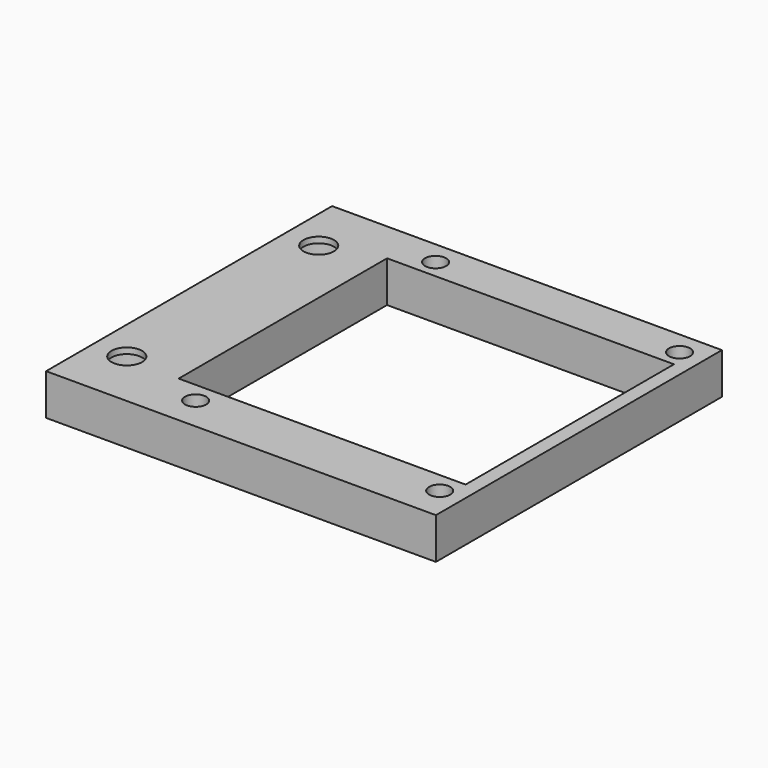
from build123d import *

# Parameters (mm, degrees)
F2_W      = 51.3
F2_H      = 60.8
F2_R      = 1.8
F2_W_2    = 48.7926781061
F2_H_2    = 44.3010972813
F3_DEPTH  = 7
F4_DEPTH  = 15
F5_R      = 2.6
F6_DEPTH  = 25
F7_R      = 1.8
F8_DEPTH  = 2.6
F9_R      = 4.5
F9_R_2    = 2.6
F10_DEPTH = 6


with BuildPart() as f3:
    # F2 (on Top) → F3 (new body)
    with BuildSketch(Plane.XY):
        with Locations((25.65, -30.4)):
            Rectangle(F2_W, F2_H)
        with Locations((5.8, -55)):
            Circle(F2_R, mode=Mode.SUBTRACT)
        with Locations((47.3, -55)):
            Circle(F2_R, mode=Mode.SUBTRACT)
        with Locations((24.4784042297, -29.3142660521)):
            Rectangle(F2_W_2, F2_H_2, mode=Mode.SUBTRACT)
        with Locations((5.8, -4)):
            Circle(F2_R, mode=Mode.SUBTRACT)
        with Locations((47.3, -4)):
            Circle(F2_R, mode=Mode.SUBTRACT)
    extrude(amount=F3_DEPTH)

    # F4 (add): a face of the model
    f4_faces = [f3.faces().sort_by_distance(p)[0] for p in [
        (0, -30.4, 3.5),
    ]]
    extrude(f4_faces, amount=F4_DEPTH)

    # F5 (on face) → F6 (cut)
    with BuildSketch(Plane.XY.offset(7)):
        with Locations((-9.2740962282, -10)):
            Circle(F5_R)
        with Locations((-9.2740962282, -50.8)):
            Circle(F5_R)
    extrude(amount=-F6_DEPTH, mode=Mode.SUBTRACT)

    # F7 (on face) → F8 (cut)
    with BuildSketch(Plane(origin=(0, 0, 0), x_dir=(1, 0, 0), z_dir=(0, 0, -1))):
        Polygon((7.4743157806, 52.1), (9.1486315613, 55), (7.4743157806, 57.9), (4.1256842194, 57.9), (2.4513684387, 55), (4.1256842194, 52.1), align=None)
        with Locations((5.8, 55)):
            Circle(F7_R, mode=Mode.SUBTRACT)
        Polygon((48.9743157806, 52.1), (50.6486315613, 55), (48.9743157806, 57.9), (45.6256842194, 57.9), (43.9513684387, 55), (45.6256842194, 52.1), align=None)
        with Locations((47.3, 55)):
            Circle(F7_R, mode=Mode.SUBTRACT)
        Polygon((48.9743157806, 1.1), (50.6486315613, 4), (48.9743157806, 6.9), (45.6256842194, 6.9), (43.9513684387, 4), (45.6256842194, 1.1), align=None)
        with Locations((47.3, 4)):
            Circle(F7_R, mode=Mode.SUBTRACT)
        Polygon((7.4743157806, 1.1), (9.1486315613, 4), (7.4743157806, 6.9), (4.1256842194, 6.9), (2.4513684387, 4), (4.1256842194, 1.1), align=None)
        with Locations((5.8, 4)):
            Circle(F7_R, mode=Mode.SUBTRACT)
    extrude(amount=-F8_DEPTH, mode=Mode.SUBTRACT)

    # F9 (on face) → F10 (cut)
    with BuildSketch(Plane(origin=(0, 0, 0), x_dir=(1, 0, 0), z_dir=(0, 0, -1))):
        with Locations((-9.2740962282, 10)):
            Circle(F9_R)
        with Locations((-9.2740962282, 10)):
            Circle(F9_R_2, mode=Mode.SUBTRACT)
        with Locations((-9.2740962282, 50.8)):
            Circle(F9_R)
        with Locations((-9.2740962282, 50.8)):
            Circle(F9_R_2, mode=Mode.SUBTRACT)
    extrude(amount=-F10_DEPTH, mode=Mode.SUBTRACT)


solid = f3.part
